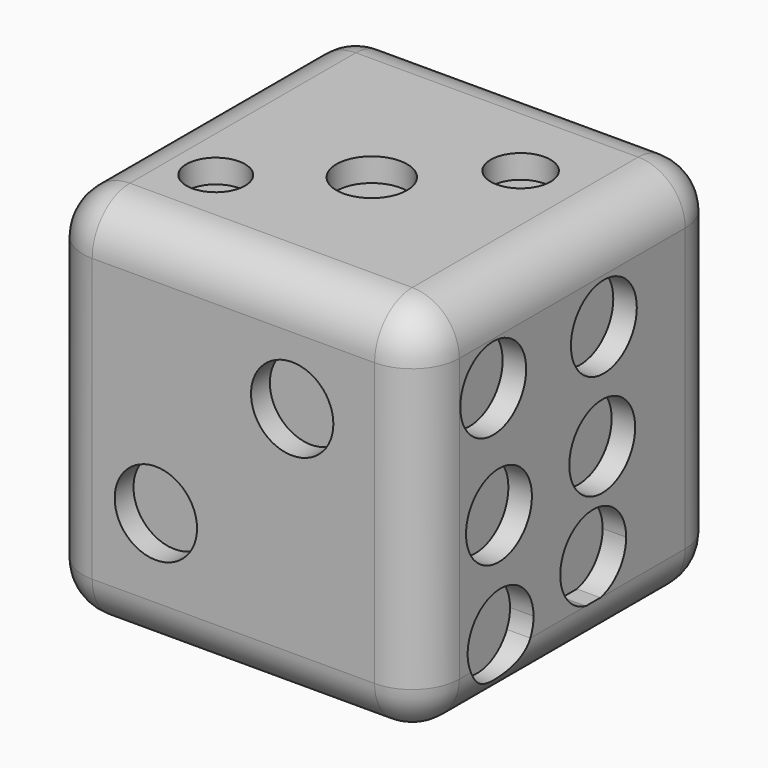
from build123d import *

# Parameters (mm, degrees)
F0_W      = 16
F0_H      = 16
F1_DEPTH  = 16
F2_R      = 2
F7_R      = 1.75
F9_DEPTH  = 1
F5_R      = 1.4939144971
F5_R_2    = 1.3959315932
F5_R_3    = 1.4557452585
F5_R_4    = 1.6299524928
F5_R_5    = 1.296089905
F10_DEPTH = 1
F4_R      = 1.75
F11_DEPTH = 1
F3_R      = 1.75
F12_DEPTH = 1
F8_R      = 1.2715772804
F8_R_2    = 1.246518745
F8_R_3    = 1.0985297942
F8_R_4    = 1.1545407094
F13_DEPTH = 1
F6_R      = 1.2445916632
F6_R_2    = 1.5020712319
F6_R_3    = 1.2709069935
F14_DEPTH = 1


with BuildPart() as f1:
    # F0 (on Front) → F1 (new body)
    with BuildSketch(Plane.XZ):
        Rectangle(F0_W, F0_H)
    extrude(amount=F1_DEPTH)

    # F2
    f2_edges = [f1.edges().sort_by_distance(p)[0] for p in [
        (8, -16, 0),
        (0, -16, 8),
        (0, -16, -8),
        (-8, -16, 0),
        (-8, 0, 0),
        (-8, -8, 8),
        (-8, -8, -8),
        (0, 0, 8),
        (8, -8, 8),
        (8, 0, 0),
        (0, 0, -8),
        (8, -8, -8),
    ]]
    fillet(f2_edges, radius=F2_R)

    # F7 (on face) → F9 (cut)
    with BuildSketch(Plane.YZ.offset(8)):
        with Locations((-11.8932482252, -0.7234399795)):
            Circle(F7_R)
        with Locations((-6.4081071032, -0.375177088)):
            Circle(F7_R)
        with BuildLine():
            ThreePointArc((-5.1369685637, -4.2931345864), (-7.9793834546, -2.9259734013), (-7.2731167994, -6))
            Line((-7.2731167994, -6), (-6.500820328, -6))
            ThreePointArc((-6.500820328, -6), (-5.5198073785, -5.3855494773), (-5.1369685637, -4.2931345864))
        make_face()
        with BuildLine():
            Line((-10.225043764, -6), (-13.3873214242, -6))
            ThreePointArc((-13.3873214242, -6), (-11.8061825941, -7), (-10.225043764, -6))
        make_face()
        with BuildLine():
            ThreePointArc((-10.225043764, -6), (-10.0989197331, -5.6343872054), (-10.0561825941, -5.25))
            ThreePointArc((-10.0561825941, -5.25), (-12.1905697995, -3.5427371391), (-13.3873214242, -6))
            Line((-13.3873214242, -6), (-10.225043764, -6))
        make_face()
        with Locations((-6.3210414721, 4.0651748088)):
            Circle(F7_R)
        with Locations((-12.1979774444, 4.1522404399)):
            Circle(F7_R)
    extrude(amount=-F9_DEPTH, mode=Mode.SUBTRACT)

    # F5 (on face) → F10 (cut)
    with BuildSketch(Plane(origin=(0, 0, 0), x_dir=(-1, 0, 0), z_dir=(0, 1, 0))):
        Circle(F5_R)
        with Locations((3.0504588503, -3.3979776781)):
            Circle(F5_R_2)
        with Locations((-2.701072488, 3.6476475652)):
            Circle(F5_R_3)
        with Locations((3.3380351961, 3.4319653641)):
            Circle(F5_R_4)
        with Locations((-3.0605429783, -2.7509303764)):
            Circle(F5_R_5)
    extrude(amount=-F10_DEPTH, mode=Mode.SUBTRACT)

    # F4 (on face) → F11 (cut)
    with BuildSketch(Plane(origin=(-8, 0, 0), x_dir=(0, -1, 0), z_dir=(-1, 0, 0))):
        with Locations((7.2365845554, 0)):
            Circle(F4_R)
    extrude(amount=-F11_DEPTH, mode=Mode.SUBTRACT)

    # F3 (on face) → F12 (cut)
    with BuildSketch(Plane.XZ.offset(16)):
        with Locations((-3.2950715739, -2.6576476197)):
            Circle(F3_R)
        with Locations((2.4981695437, 3.135593015)):
            Circle(F3_R)
    extrude(amount=-F12_DEPTH, mode=Mode.SUBTRACT)

    # F8 (on face) → F13 (cut)
    with BuildSketch(Plane(origin=(0, 0, -8), x_dir=(1, 0, 0), z_dir=(0, 0, -1))):
        with Locations((-3.9973538369, 11.7731597275)):
            Circle(F8_R)
        with Locations((2.0313244313, 11.7103606462)):
            Circle(F8_R_2)
        with Locations((-3.2437690534, 6.1840731651)):
            Circle(F8_R_3)
        with Locations((1.5289339935, 5.7444819249)):
            Circle(F8_R_4)
    extrude(amount=-F13_DEPTH, mode=Mode.SUBTRACT)

    # F6 (on face) → F14 (cut)
    with BuildSketch(Plane.XY.offset(8)):
        with Locations((-4.1440962814, -11.7570487782)):
            Circle(F6_R)
        with Locations((0, -8.6503596976)):
            Circle(F6_R_2)
        with Locations((3.5650942009, -5.1984833553)):
            Circle(F6_R_3)
    extrude(amount=-F14_DEPTH, mode=Mode.SUBTRACT)


solid = f1.part
